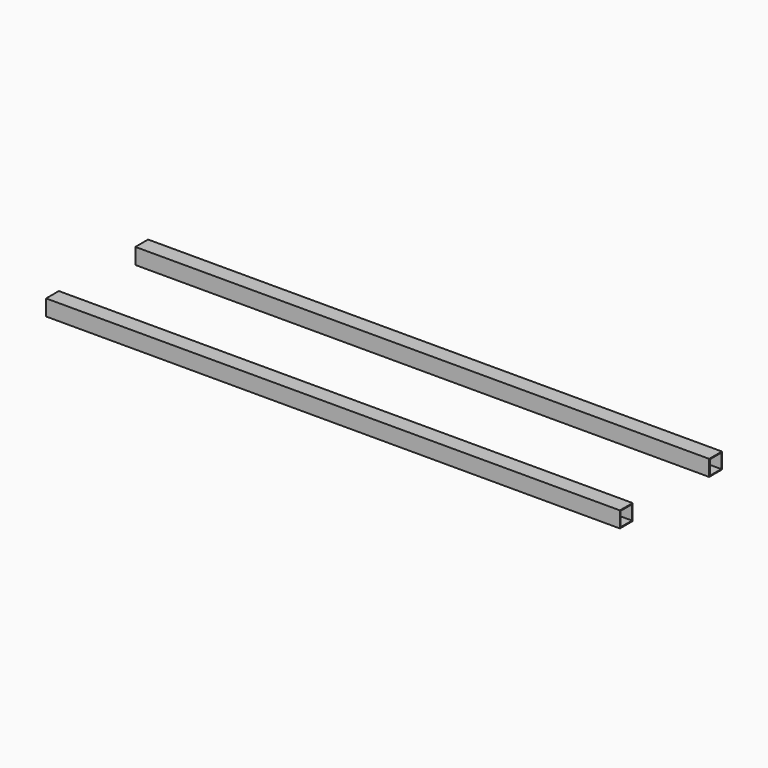
from build123d import *

# Parameters (mm, degrees)
F0_W     = 1828.8
F0_H     = 50.8
F1_DEPTH = 50.8
F2_T     = -2.54


with BuildPart() as f1:
    # F0 (on Front) → F1 (new body)
    with BuildSketch(Plane.XZ):
        with Locations((-867.20353, 71.503742)):
            Rectangle(F0_W, F0_H)
    extrude(amount=F1_DEPTH)

    # F2
    f2_openings = [f1.faces().sort_by_distance(p)[0] for p in [
        (47.19647, -25.4, 71.503742),
        (-1781.60353, -25.4, 71.503742),
    ]]
    offset(amount=F2_T, openings=f2_openings)


with BuildPart() as f3_1:
    # F3: copy of F1
    add(f1.part.moved(Location((0, 355.6, 0))))


solid = Compound([f1.part, f3_1.part])
